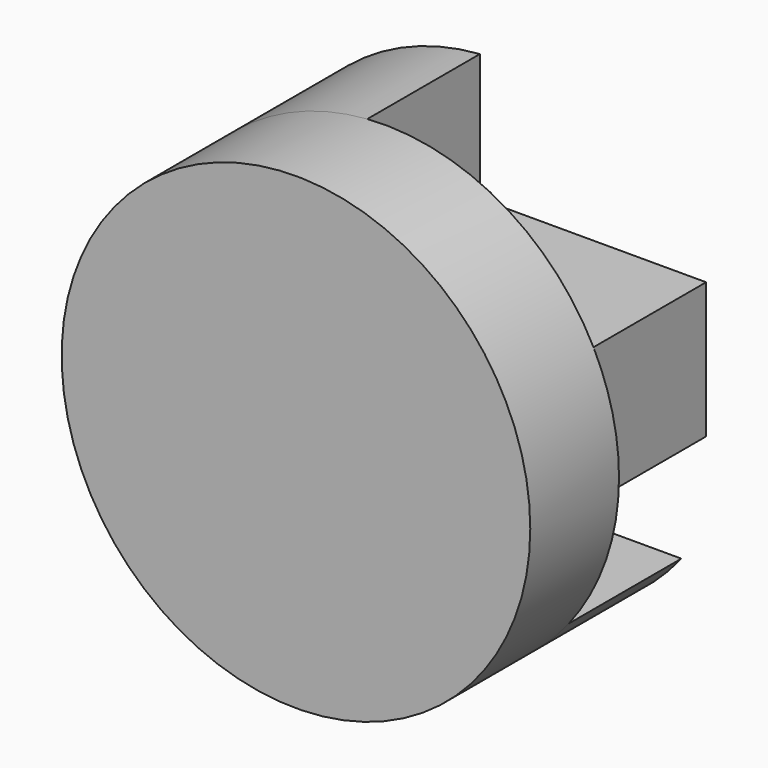
from build123d import *

# Parameters (mm, degrees)
F0_R     = 53.6605194211
F1_DEPTH = 25.4
F3_DEPTH = 32.2364754975


with BuildPart() as f1:
    # F0 (on Front) → F1 (new body)
    with BuildSketch(Plane.XZ):
        with Locations((53.6605194211, 0)):
            Circle(F0_R)
    extrude(amount=F1_DEPTH)

    # F2 (on face) → F3 (join)
    with BuildSketch(Plane(origin=(0, 0, 0), x_dir=(-1, 0, 0), z_dir=(0, 1, 0))):
        with BuildLine():
            Line((-49.6755093336, 24.3517733055), (-49.6755093336, 0))
            Line((-49.6755093336, 0), (0, 0))
            ThreePointArc((0, 0), (-14.3331176779, 36.5076268289), (-49.6755093336, 53.512344736))
            Line((-49.6755093336, 53.512344736), (-49.6755093336, 24.3517733055))
        make_face()
        Polygon((-101.477278841, -6.7454725504), (-49.6755093336, -6.7454725504), (-49.6755093336, 0), (-49.6755093336, 24.3517733055), (-101.477278841, 24.3517733055), align=None)
        with BuildLine():
            Line((-46.5558620227, -33.2158250568), (-49.6755093336, -33.2158250568))
            Line((-49.6755093336, -33.2158250568), (-95.8050363876, -33.2158250568))
            ThreePointArc((-95.8050363876, -33.2158250568), (-80.2329364873, -46.6192878088), (-60.7651768195, -53.1881113388))
            Line((-60.7651768195, -53.1881113388), (-46.5558620227, -53.1881113388))
            Line((-46.5558620227, -53.1881113388), (-46.5558620227, -33.2158250568))
        make_face()
    extrude(amount=F3_DEPTH)


solid = f1.part
